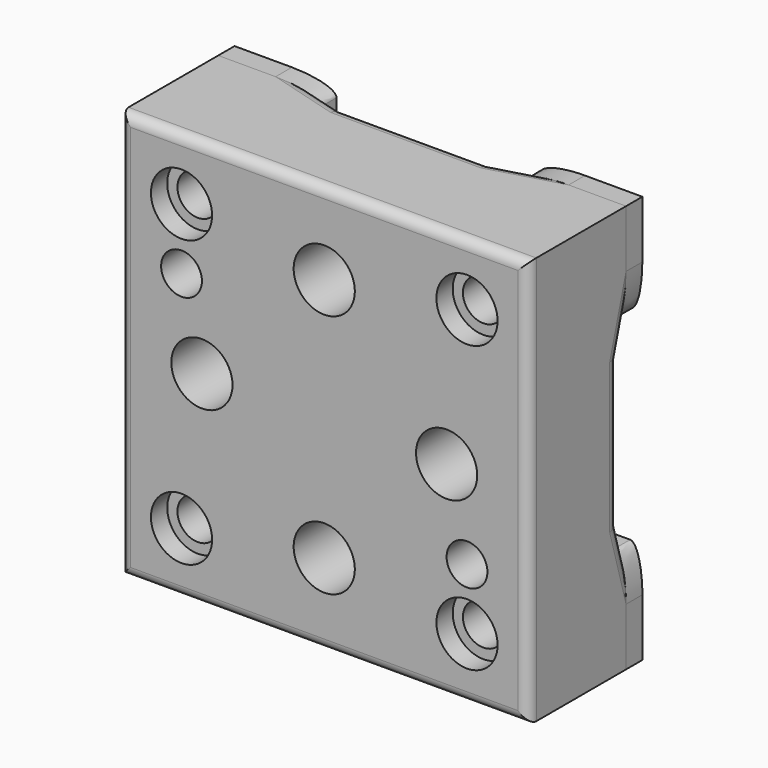
from build123d import *

# Parameters (mm, degrees)
F0_W      = 100
F0_H      = 100
F0_R      = 5
F0_R_2    = 7.5
F1_DEPTH  = 30
F3_DEPTH  = 100.001
F5_DEPTH  = 100.001
F6_R      = 2.5
F7_R      = 3
F8_R      = 5
F9_DEPTH  = 5
F10_R     = 7.5
F10_R_2   = 5
F11_DEPTH = 5


with BuildPart() as f1:
    # F0 (on Front) → F1 (new body)
    with BuildSketch(Plane.XZ):
        with Locations((50, -50)):
            Rectangle(F0_W, F0_H)
        with Locations((15, -85)):
            Circle(F0_R, mode=Mode.SUBTRACT)
        with Locations((50, -80)):
            Circle(F0_R_2, mode=Mode.SUBTRACT)
        with Locations((85, -85)):
            Circle(F0_R, mode=Mode.SUBTRACT)
        with Locations((85, -70)):
            Circle(F0_R, mode=Mode.SUBTRACT)
        with Locations((20, -50)):
            Circle(F0_R_2, mode=Mode.SUBTRACT)
        with Locations((15, -30)):
            Circle(F0_R, mode=Mode.SUBTRACT)
        with Locations((15, -15)):
            Circle(F0_R, mode=Mode.SUBTRACT)
        with Locations((80, -50)):
            Circle(F0_R_2, mode=Mode.SUBTRACT)
        with Locations((50, -20)):
            Circle(F0_R_2, mode=Mode.SUBTRACT)
        with Locations((85, -15)):
            Circle(F0_R, mode=Mode.SUBTRACT)
    extrude(amount=F1_DEPTH)

    # F2 (on face) → F3 (cut, through all)
    with BuildSketch(Plane(origin=(0, 0, -100), x_dir=(1, 0, 0), z_dir=(0, 0, -1))):
        Polygon((32, 2), (25, 0), (75, 0), (68, 2), align=None)
    extrude(amount=-F3_DEPTH, mode=Mode.SUBTRACT)

    # F4 (on face) → F5 (cut, through all)
    with BuildSketch(Plane(origin=(0, 0, 0), x_dir=(0, -1, 0), z_dir=(-1, 0, 0))):
        Polygon((2, -32), (0, -25), (0, -75), (2, -68), align=None)
    extrude(amount=-F5_DEPTH, mode=Mode.SUBTRACT)

    # F6
    f6_edges = [f1.edges().sort_by_distance(p)[0] for p in [
        (100, -30, -50),
        (50, -30, 0),
        (0, -30, -50),
        (50, -30, -100),
    ]]
    fillet(f6_edges, radius=F6_R)

    # F7
    f7_edges = [f1.edges().sort_by_distance(p)[0] for p in [
        (100, -2, -50),
        (100, -1, -28.5),
        (100, -1, -71.5),
        (0, -2, -50),
        (0, -1, -71.5),
        (0, -1, -28.5),
        (50, -2, -100),
        (71.5, -1, -100),
        (28.5, -1, -100),
        (50, -2, 0),
        (71.5, -1, 0),
        (28.5, -1, 0),
    ]]
    fillet(f7_edges, radius=F7_R)

    # F10 (on face) → F11 (cut)
    with BuildSketch(Plane.XZ.offset(30)):
        with Locations((15, -85)):
            Circle(F10_R)
        with Locations((15, -85)):
            Circle(F10_R_2, mode=Mode.SUBTRACT)
        with Locations((85, -85)):
            Circle(F10_R)
        with Locations((85, -85)):
            Circle(F10_R_2, mode=Mode.SUBTRACT)
        with Locations((85, -15)):
            Circle(F10_R)
        with Locations((85, -15)):
            Circle(F10_R_2, mode=Mode.SUBTRACT)
        with Locations((15, -15)):
            Circle(F10_R)
        with Locations((15, -15)):
            Circle(F10_R_2, mode=Mode.SUBTRACT)
    extrude(amount=-F11_DEPTH, mode=Mode.SUBTRACT)


with BuildPart() as f9:
    # F8 (on face) → F9 (new body)
    with BuildSketch(Plane(origin=(0, 0, 0), x_dir=(-1, 0, 0), z_dir=(0, 1, 0))):
        with BuildLine():
            Line((-85.9201648339, 0), (-100, 0))
            Line((-100, 0), (-100, -14.0798351661))
            add(Edge.make_bspline(
                [(-100, -14.0798351661), (-100, -25), (-97, -25)],
                knots=[1.5707963268, 1.5707963268, 1.5707963268, 3.1415926536, 3.1415926536, 3.1415926536], degree=2, weights=[1, 0.7071067812, 1]))
            Line((-97, -25), (-75, -25))
            Line((-75, -25), (-75, -3))
            add(Edge.make_bspline(
                [(-75, -3), (-75, 0), (-85.9201648339, 0)],
                knots=[0, 0, 0, 1.5707963268, 1.5707963268, 1.5707963268], degree=2, weights=[1, 0.7071067812, 1]))
        make_face()
        with Locations((-85, -15)):
            Circle(F8_R, mode=Mode.SUBTRACT)
    extrude(amount=F9_DEPTH)


with BuildPart() as f9b:
    # F8 (on face) → F9, piece 2 (new body)
    with BuildSketch(Plane(origin=(0, 0, 0), x_dir=(-1, 0, 0), z_dir=(0, 1, 0))):
        with BuildLine():
            Line((-25, -25), (-15, -25))
            Line((-15, -25), (-3, -25))
            add(Edge.make_bspline(
                [(-3, -25), (0, -25), (0, -14.0798351661)],
                knots=[3.1415926536, 3.1415926536, 3.1415926536, 4.7123889804, 4.7123889804, 4.7123889804], degree=2, weights=[1, 0.7071067812, 1]))
            Line((0, -14.0798351661), (0, 0))
            Line((0, 0), (-14.0798351661, 0))
            add(Edge.make_bspline(
                [(-14.0798351661, 0), (-25, 0), (-25, -3)],
                knots=[1.5707963268, 1.5707963268, 1.5707963268, 3.1415926536, 3.1415926536, 3.1415926536], degree=2, weights=[1, 0.7071067812, 1]))
            Line((-25, -3), (-25, -25))
        make_face()
        with Locations((-15, -15)):
            Circle(F8_R, mode=Mode.SUBTRACT)
    extrude(amount=F9_DEPTH)


with BuildPart() as f9c:
    # F8 (on face) → F9, piece 3 (new body)
    with BuildSketch(Plane(origin=(0, 0, 0), x_dir=(-1, 0, 0), z_dir=(0, 1, 0))):
        with BuildLine():
            Line((-14.0798351661, -100), (0, -100))
            Line((0, -100), (0, -85.9201648339))
            add(Edge.make_bspline(
                [(0, -85.9201648339), (0, -75), (-3, -75)],
                knots=[4.7123889804, 4.7123889804, 4.7123889804, 6.2831853072, 6.2831853072, 6.2831853072], degree=2, weights=[1, 0.7071067812, 1]))
            Line((-3, -75), (-25, -75))
            Line((-25, -75), (-25, -97))
            add(Edge.make_bspline(
                [(-25, -97), (-25, -100), (-14.0798351661, -100)],
                knots=[3.1415926536, 3.1415926536, 3.1415926536, 4.7123889804, 4.7123889804, 4.7123889804], degree=2, weights=[1, 0.7071067812, 1]))
        make_face()
        with Locations((-15, -85)):
            Circle(F8_R, mode=Mode.SUBTRACT)
    extrude(amount=F9_DEPTH)


with BuildPart() as f9d:
    # F8 (on face) → F9, piece 4 (new body)
    with BuildSketch(Plane(origin=(0, 0, 0), x_dir=(-1, 0, 0), z_dir=(0, 1, 0))):
        with BuildLine():
            Line((-75, -75), (-85, -75))
            Line((-85, -75), (-97, -75))
            add(Edge.make_bspline(
                [(-97, -75), (-100, -75), (-100, -85.9201648339)],
                knots=[0, 0, 0, 1.5707963268, 1.5707963268, 1.5707963268], degree=2, weights=[1, 0.7071067812, 1]))
            Line((-100, -85.9201648339), (-100, -100))
            Line((-100, -100), (-85.9201648339, -100))
            add(Edge.make_bspline(
                [(-85.9201648339, -100), (-75, -100), (-75, -97)],
                knots=[4.7123889804, 4.7123889804, 4.7123889804, 6.2831853072, 6.2831853072, 6.2831853072], degree=2, weights=[1, 0.7071067812, 1]))
            Line((-75, -97), (-75, -75))
        make_face()
        with Locations((-85, -85)):
            Circle(F8_R, mode=Mode.SUBTRACT)
    extrude(amount=F9_DEPTH)


solid = Compound([f1.part, f9.part, f9b.part, f9c.part, f9d.part])
